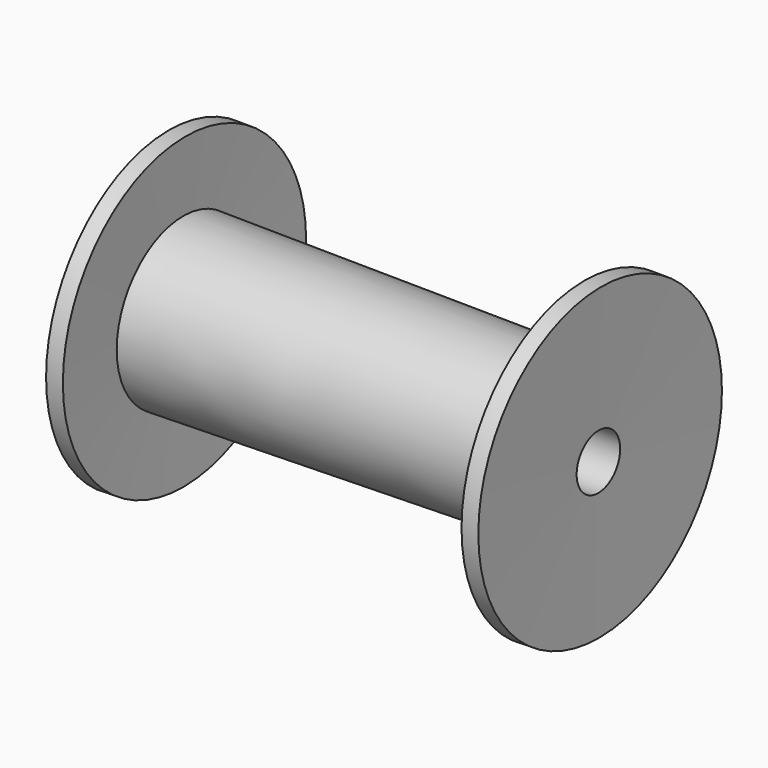
from build123d import *

# Parameters (mm, degrees)
F2_R          = 31.75
F3_DEPTH      = 211.2122471454
F3_DEPTH_BACK = 288.1372322342


with BuildPart() as f1:
    # F0 (on Top) → F1 (revolve)
    with BuildSketch(Plane.XY):
        Polygon((207.1876852567, 0), (-288.1362322342, -4.5483284574), (-284.1126703454, -182.3027966142), (-265.0675487572, -181.8717006976), (-267.9034604739, -100.6019149123), (190.1752766148, -90.2330720489), (192.1661255572, -178.1855640735), (211.2112471454, -177.7544681569), align=None)
    revolve(axis=Axis((-40.4742734887, -2.2741642287, 0), (0.9999578432, 0.0091821464, 0)))

    # F2 (on Right) → F3 (cut, two sides)
    with BuildSketch(Plane.YZ) as f3_sk:
        Circle(F2_R)
    extrude(amount=F3_DEPTH, mode=Mode.SUBTRACT)
    extrude(f3_sk.sketch, amount=-F3_DEPTH_BACK, mode=Mode.SUBTRACT)


solid = f1.part
